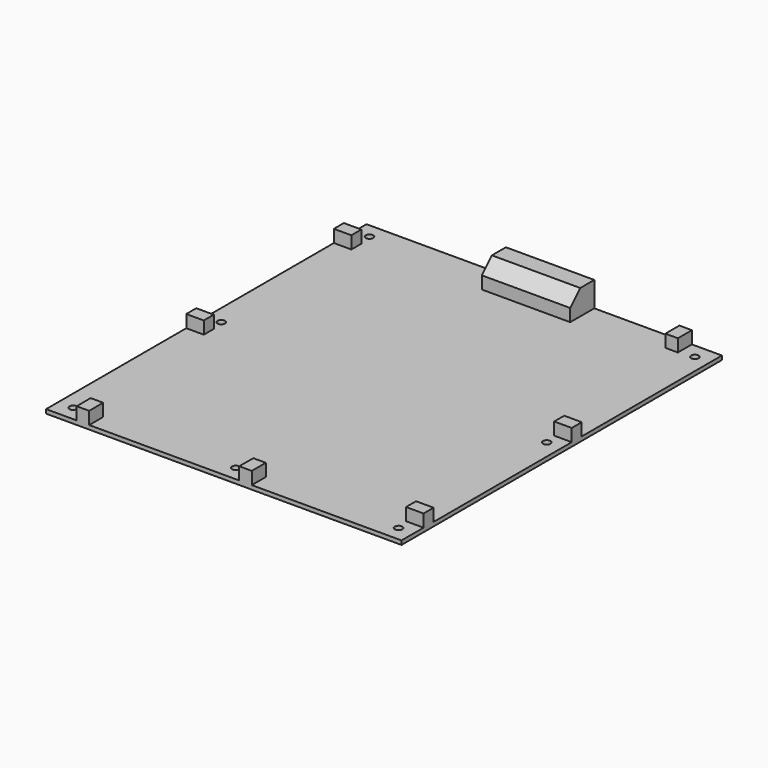
from build123d import *

# Parameters (mm, degrees)
F0_R     = 1.5
F1_DEPTH = 1.6
F2_W     = 35.3
F2_H     = 12
F3_DEPTH = 10
F4_W     = 7
F4_H     = 5
F4_W_2   = 5
F4_H_2   = 7
F5_DEPTH = 5
F6_SIZE  = 5


with BuildPart() as f1:
    # F0 (on Top) → F1 (new body)
    with BuildSketch(Plane.XY):
        Polygon((0, 160), (0, 0), (142, 0), (142, 160), (91, 160), (91, 148), (55.7, 148), (55.7, 160), align=None)
        with Locations((6, 6)):
            Circle(F0_R, mode=Mode.SUBTRACT)
        with Locations((71, 6)):
            Circle(F0_R, mode=Mode.SUBTRACT)
        with Locations((136, 6)):
            Circle(F0_R, mode=Mode.SUBTRACT)
        with Locations((6, 80)):
            Circle(F0_R, mode=Mode.SUBTRACT)
        with Locations((6, 154)):
            Circle(F0_R, mode=Mode.SUBTRACT)
        with Locations((136, 80)):
            Circle(F0_R, mode=Mode.SUBTRACT)
        with Locations((136, 154)):
            Circle(F0_R, mode=Mode.SUBTRACT)
    extrude(amount=-F1_DEPTH)

    # F4 (on Top) → F5 (join)
    with BuildSketch(Plane.XY):
        with Locations((3.5, 146.2)):
            Rectangle(F4_W, F4_H)
        with Locations((3.5, 72.5)):
            Rectangle(F4_W, F4_H)
        with Locations((127.5, 156.5)):
            Rectangle(F4_W_2, F4_H_2)
        with Locations((138.5, 87.5)):
            Rectangle(F4_W, F4_H)
        with Locations((138.5, 13.5)):
            Rectangle(F4_W, F4_H)
        with Locations((79.67, 3.5)):
            Rectangle(F4_W_2, F4_H_2)
        with Locations((14.72, 3.5)):
            Rectangle(F4_W_2, F4_H_2)
    extrude(amount=F5_DEPTH)


with BuildPart() as f3:
    # F2 (on Top) → F3 (new body)
    with BuildSketch(Plane.XY):
        with Locations((73.35, 154)):
            Rectangle(F2_W, F2_H)
    extrude(amount=F3_DEPTH)

    # F6
    f6_edges = [f3.edges().sort_by_distance(p)[0] for p in [
        (73.35, 148, 10),
    ]]
    chamfer(f6_edges, length=F6_SIZE)


solid = Compound([f1.part, f3.part])
